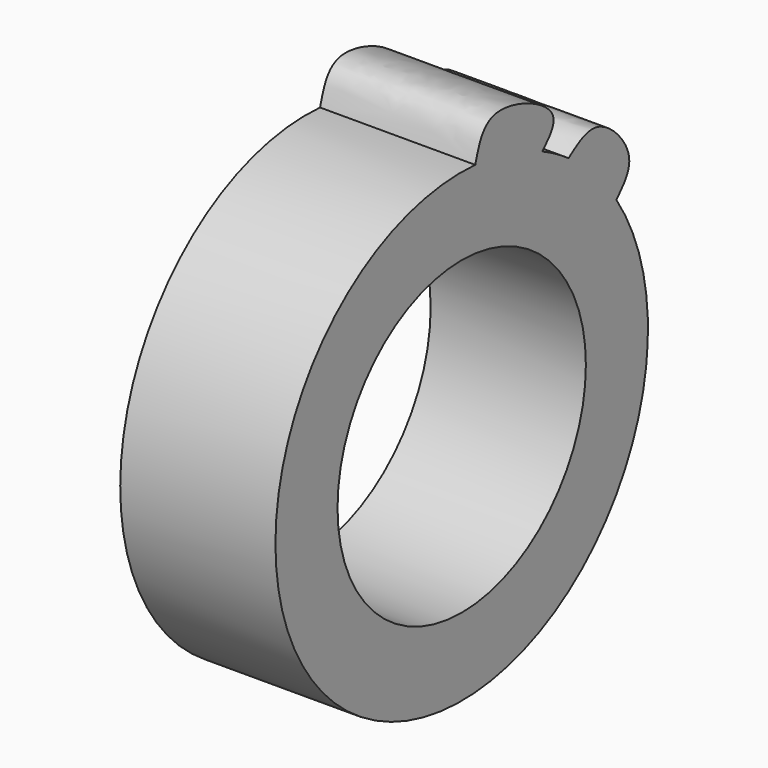
from build123d import *

# Parameters (mm, degrees)
F0_R     = 127
F1_DEPTH = 127


with BuildPart() as f1:
    # F0 (on Right) → F1 (new body)
    with BuildSketch(Plane.YZ):
        with BuildLine():
            add(Edge.make_bspline(
                [(158.2641009199, 106.0317139351), (165.5485603506, 113.6858559313), (182.0239705027, 131.117923524), (139.1983271887, 177.4789745685), (118.5757002352, 162.6678158934), (109.3134050001, 156.015478358)],
                knots=[0, 0, 0, 0, 0.3003264643, 0.6858922915, 1, 1, 1, 1], degree=3))
            ThreePointArc((109.3134050001, 156.015478358), (96.2332261062, 164.40625351), (82.5126559992, 171.7029749304))
            add(Edge.make_bspline(
                [(82.5126559992, 171.7029749304), (89.6886495751, 178.9776002541), (108.2685400395, 197.8056751478), (25.9906013723, 232.7929605878), (17.4823634781, 202.8097889739), (13.87481885, 189.9940509644)],
                knots=[0, 0, 0, 0, 0.2643043975, 0.6871004045, 1, 1, 1, 1], degree=3))
            ThreePointArc((13.87481885, 189.9940509644), (-95.7620511202, -164.6811451419), (158.2641009199, 106.0317139351))
        make_face()
        Circle(F0_R, mode=Mode.SUBTRACT)
    extrude(amount=F1_DEPTH)


solid = f1.part
